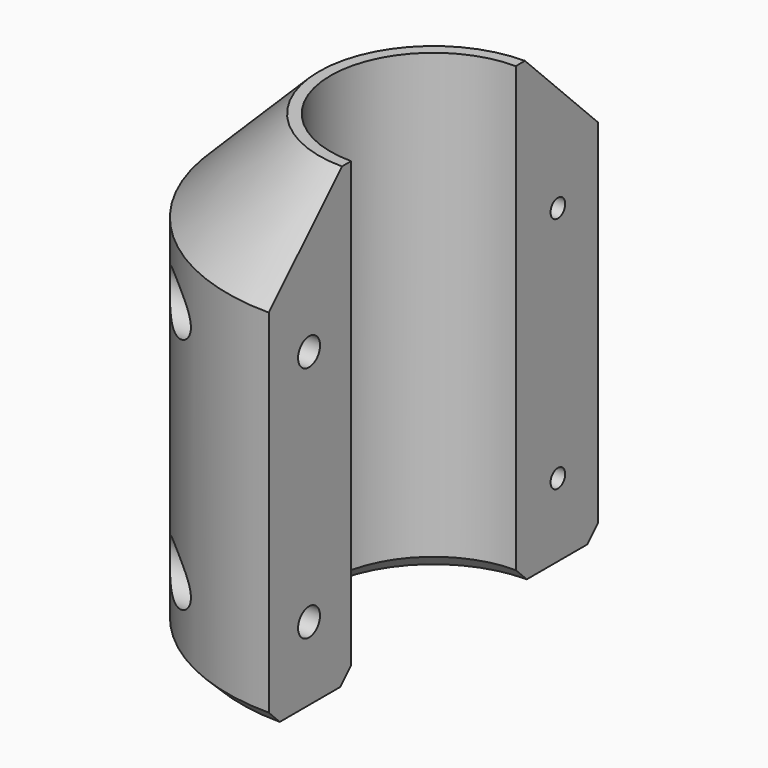
from build123d import *

# Parameters (mm, degrees)
F0_R            = 45
F0_R_2          = 22.5
F1_DEPTH        = 100
F2_SIZE         = 20
F3_SIZE         = 3
F4_W            = 48.8546937704
F4_H            = 132.6055675745
F5_DEPTH        = 100
F8_D            = 4
F8_DEPTH        = 25
F8_TIP          = 1.2017212381
F10_D           = 6
F10_CBORE_D     = 11.25
F10_CBORE_DEPTH = 35


with BuildPart() as f1:
    # F0 (on Top) → F1 (new body)
    with BuildSketch(Plane.XY):
        Circle(F0_R)
        Circle(F0_R_2, mode=Mode.SUBTRACT)
    extrude(amount=F1_DEPTH)

    # F2
    f2_edges = [f1.edges().sort_by_distance(p)[0] for p in [
        (-45, 0, 100),
    ]]
    chamfer(f2_edges, length=F2_SIZE)

    # F3
    f3_edges = [f1.edges().sort_by_distance(p)[0] for p in [
        (-45, 0, 0),
        (-22.5, 0, 0),
    ]]
    chamfer(f3_edges, length=F3_SIZE)

    # F4 (on Top) → F5 (cut)
    with BuildSketch(Plane.XY):
        with Locations((24.4273468852, 2.2433325648)):
            Rectangle(F4_W, F4_H)
    extrude(amount=F5_DEPTH, mode=Mode.SUBTRACT)

    # F8
    with Locations(Plane.YZ):
        with Locations((34, 68), (34, 16)):
            Hole(F8_D / 2, depth=F8_DEPTH)
            with Locations((0, 0, -(F8_DEPTH + F8_TIP / 2))):  # 118° drill point
                Cone(0, F8_D / 2, F8_TIP, mode=Mode.SUBTRACT)

    # F10 (through all)
    with Locations(Plane(origin=(-50, 0, 0), x_dir=(0, 1, 0), z_dir=(-1, 0, 0))):
        with Locations((-34, -68), (-34, -16)):
            CounterBoreHole(F10_D / 2, F10_CBORE_D / 2, F10_CBORE_DEPTH)


solid = f1.part
